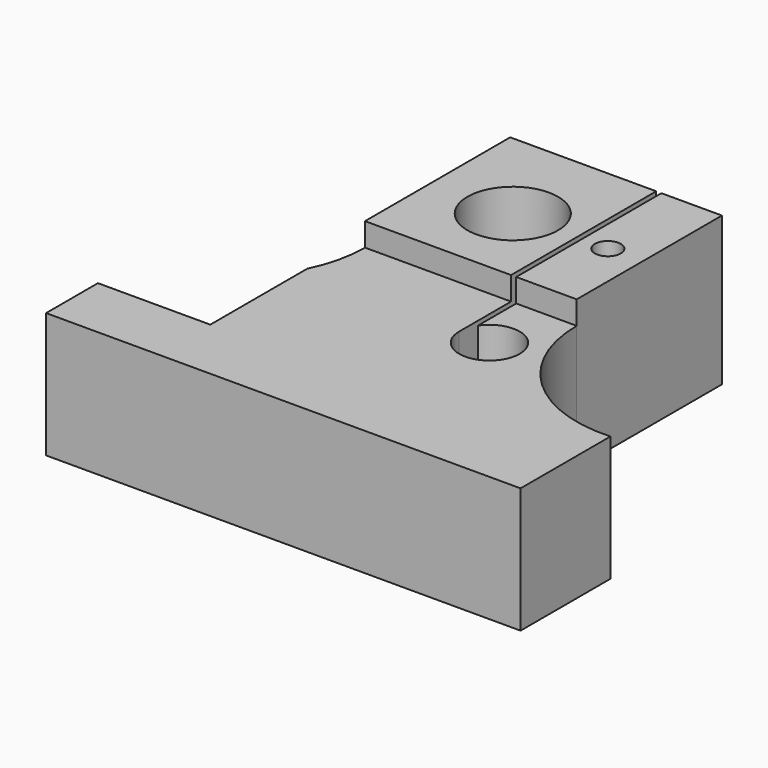
from build123d import *

# Parameters (mm, degrees)
F1_DEPTH = 14.5
F0_W     = 16.9
F0_H     = 21
F0_R     = 5.25
F0_W_2   = 7
F2_DEPTH = 17.2
F3_R     = 1.5
F4_DEPTH = 25


with BuildPart() as f1:
    # F0 (on Top) → F1 (new body)
    with BuildSketch(Plane.XY):
        with BuildLine():
            Line((7.4, -9.5), (-9.5, -9.5))
            ThreePointArc((-9.5, -9.5), (-9.879864, -12.835416), (-11, -16))
            Line((-11, -16), (-11, -30))
            Line((-11, -30), (-24, -30))
            Line((-24, -30), (-24, -37.5))
            Line((-24, -37.5), (30.9, -37.5))
            Line((30.9, -37.5), (30.9, -24.5))
            ThreePointArc((30.9, -24.5), (19.714686, -20.429433), (15, -9.5))
            Line((15, -9.5), (8, -9.5))
            Line((8, -9.5), (8, -15.040408))
            ThreePointArc((8, -15.040408), (14.24664, -18.024695), (7.4, -17))
            Line((7.4, -17), (7.4, -9.5))
        make_face()
    extrude(amount=F1_DEPTH)

    # F0 (on Top) → F2 (join)
    with BuildSketch(Plane.XY):
        with Locations((-1.05, 1)):
            Rectangle(F0_W, F0_H)
        Circle(F0_R, mode=Mode.SUBTRACT)
        with Locations((11.5, 1)):
            Rectangle(F0_W_2, F0_H)
    extrude(amount=F2_DEPTH)

    # F3 (on face) → F4 (cut)
    with BuildSketch(Plane.XY.offset(17.2)):
        with Locations((11, 0)):
            Circle(F3_R)
    extrude(amount=-F4_DEPTH, mode=Mode.SUBTRACT)


solid = f1.part
